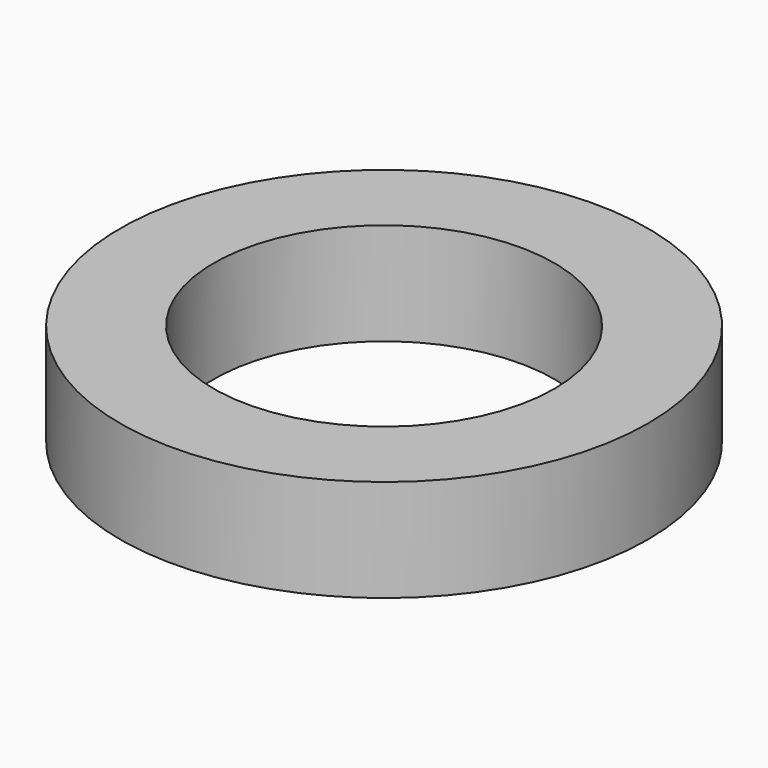
from build123d import *

# Parameters (mm, degrees)
SKETCH_R   = 31
SKETCH_R_2 = 20
PAD_DEPTH  = 6


with BuildPart() as part:
    # Sketch → Pad (new body, symmetric)
    with BuildSketch(Plane.XY):
        Circle(SKETCH_R)
        Circle(SKETCH_R_2, mode=Mode.SUBTRACT)
    extrude(amount=PAD_DEPTH, both=True)


solid = part.part
